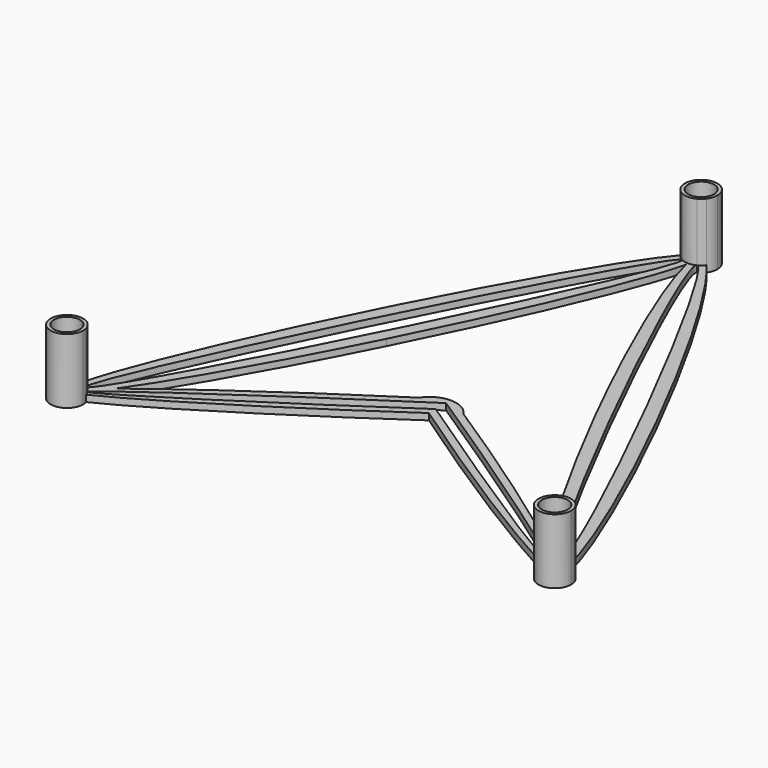
from build123d import *

# Parameters (mm, degrees)
F0_R     = 4
F0_R_2   = 2.5
F1_DEPTH = 2
F2_DEPTH = 20


with BuildPart() as f1:
    # F0 (on Top) → F1 (new body)
    with BuildSketch(Plane.XY):
        Circle(F0_R)
        Circle(F0_R_2, mode=Mode.SUBTRACT)
    extrude(amount=F1_DEPTH)


with BuildPart() as f1b:
    # F0 (on Top) → F1, piece 2 (new body)
    with BuildSketch(Plane.XY):
        with Locations((150, -6e-10)):
            Circle(F0_R)
        with Locations((150, -6e-10)):
            Circle(F0_R_2, mode=Mode.SUBTRACT)
    extrude(amount=F1_DEPTH)


with BuildPart() as f1c:
    # F0 (on Top) → F1, piece 3 (new body)
    with BuildSketch(Plane.XY):
        with Locations((75.0000000006, 149.9999999997)):
            Circle(F0_R)
        with Locations((75.0000000006, 149.9999999997)):
            Circle(F0_R_2, mode=Mode.SUBTRACT)
    extrude(amount=F1_DEPTH)


with BuildPart() as f1d:
    # F0 (on Top) → F1, piece 4 (new body)
    with BuildSketch(Plane.XY):
        with BuildLine():
            ThreePointArc((79.0012065768, 147.0016094424), (78.2045092857, 146.161885848), (77.2360679487, 145.52786403))
            add(Edge.make_bspline(
                [(147.7639320225, 4.4721359544), (150.975713636, 6.0780267612), (115.7117814382, 76.6058911209), (80.4478492403, 147.1337554807), (77.2360679487, 145.52786403)],
                knots=[0, 0, 0, 1.5707963314, 1.5707963314, 3.1415926627, 3.1415926627, 3.1415926627], degree=2, weights=[1, 0.7071067796, 1, 0.7071067796, 1]))
            ThreePointArc((147.7639320225, 4.4721359544), (149.1294900371, 4.9236381263), (150.5670776291, 4.9677382134))
            add(Edge.make_bspline(
                [(150.5670776291, 4.9677382134), (132.1845938597, 87.4948643458), (79.0012065768, 147.0016094424)],
                knots=[3.4834864984, 3.4834864984, 3.4834864984, 5.9626459505, 5.9626459505, 5.9626459505], degree=2, weights=[1, 0.3251937441, 1]))
        make_face()
    extrude(amount=F1_DEPTH)


with BuildPart() as f1e:
    # F0 (on Top) → F1, piece 5 (new body)
    with BuildSketch(Plane.XY):
        with BuildLine():
            ThreePointArc((2.2360679775, 4.472135955), (3.3090128106, 3.748390884), (4.1602514634, 2.7735009936))
            add(Edge.make_bspline(
                [(75.0000000001, 51.9747073929), (2.6962620712, 4.9694864759), (4.1602514634, 2.7735009936)],
                knots=[4.325345275, 4.325345275, 4.325345275, 6.2831852989, 6.2831852989, 6.2831852989], degree=2, weights=[1, 0.557919149, 1]))
            add(Edge.make_bspline(
                [(145.8397485132, 2.7735009585), (147.3037397677, 4.96948528), (75, 51.974707393)],
                knots=[6.2831852919, 6.2831852919, 6.2831852919, 8.2410253393, 8.2410253393, 8.2410253393], degree=2, weights=[1, 0.5579191392, 1]))
            ThreePointArc((145.8397485135, 2.7735009583), (146.6909871738, 3.7483908697), (147.7639320225, 4.4721359544))
            add(Edge.make_bspline(
                [(77.2360679487, 145.52786403), (74.0242866865, 143.9219725941), (109.2882185624, 73.3941088782), (144.5521504383, 2.8662451623), (147.7639320225, 4.4721359544)],
                knots=[3.1415926627, 3.1415926627, 3.1415926627, 4.7123889849, 4.7123889849, 6.2831853072, 6.2831853072, 6.2831853072], degree=2, weights=[1, 0.7071067828, 1, 0.7071067828, 1]))
            ThreePointArc((77.2360679487, 145.52786403), (75.0000000006, 144.9999999997), (72.7639320524, 145.5278640301))
            add(Edge.make_bspline(
                [(2.2360679775, 4.472135955), (5.4478495617, 2.8662451629), (40.7117814382, 73.3941088785), (75.9757133146, 143.9219725941), (72.7639320524, 145.5278640301)],
                knots=[0, 0, 0, 1.5707963222, 1.5707963222, 3.1415926445, 3.1415926445, 3.1415926445], degree=2, weights=[1, 0.7071067828, 1, 0.7071067828, 1]))
        make_face()
        with BuildLine():
            add(Edge.make_bspline(
                [(68.1720938249, 50.1453927692), (29.1323210889, 24.9812978491), (8.2554800597, 8.2020035961)],
                knots=[1.3176094199, 1.3176094199, 1.3176094199, 2.5518711664, 2.5518711664, 2.5518711664], degree=2, weights=[1, 0.815542168, 1]))
            add(Edge.make_bspline(
                [(8.2554800595, 8.202003595), (21.8843343101, 27.3328513739), (42.9342556451, 69.1166628307)],
                knots=[3.6602556494, 3.6602556494, 3.6602556494, 4.6786096571, 4.6786096571, 4.6786096571], degree=2, weights=[1, 0.87314598, 1]))
            add(Edge.make_bspline(
                [(42.9342556451, 69.1166628307), (70.1590012341, 123.1574175937), (75.0000000002, 144.1921586292)],
                knots=[4.6786096571, 4.6786096571, 4.6786096571, 5.9293471235, 5.9293471235, 5.9293471235], degree=2, weights=[1, 0.8107473196, 1]))
            add(Edge.make_bspline(
                [(74.9999999999, 144.19215863), (79.8409987654, 123.1574175953), (107.0657443546, 69.1166628313)],
                knots=[0.3538381837, 0.3538381837, 0.3538381837, 1.6045756501, 1.6045756501, 1.6045756501], degree=2, weights=[1, 0.8107473196, 1]))
            add(Edge.make_bspline(
                [(107.0657443546, 69.1166628313), (128.1156656889, 27.3328513755), (141.7445199396, 8.2020035958)],
                knots=[1.6045756501, 1.6045756501, 1.6045756501, 2.6229296578, 2.6229296578, 2.6229296578], degree=2, weights=[1, 0.87314598, 1]))
            add(Edge.make_bspline(
                [(141.7445199402, 8.2020035961), (120.867678911, 24.9812978491), (81.8279061752, 50.1453927692)],
                knots=[3.7313141408, 3.7313141408, 3.7313141408, 4.9655758873, 4.9655758873, 4.9655758873], degree=2, weights=[1, 0.815542168, 1]))
            ThreePointArc((81.8279061752, 50.1453927687), (75.0000000001, 53.8107347275), (68.172093825, 50.1453927685))
        make_face(mode=Mode.SUBTRACT)
    extrude(amount=F1_DEPTH)


with BuildPart() as f1f:
    # F0 (on Top) → F1, piece 6 (new body)
    with BuildSketch(Plane.XY):
        with BuildLine():
            ThreePointArc((4.1602514634, 2.7735009936), (4.5307515066, 2.1147791341), (4.7977356994, 1.4077400892))
            add(Edge.make_bspline(
                [(4.7977356994, 1.4077400892), (25.9185998279, 11.3185764312), (75, 45.3643565351)],
                knots=[3.5196044708, 3.5196044708, 3.5196044708, 5.0121556446, 5.0121556446, 5.0121556446], degree=2, weights=[1, 0.7342224926, 1]))
            add(Edge.make_bspline(
                [(75.0000000002, 45.364356535), (124.0814001723, 11.318576431), (145.2022643006, 1.4077400891)],
                knots=[1.2710296626, 1.2710296626, 1.2710296626, 2.7635808363, 2.7635808363, 2.7635808363], degree=2, weights=[1, 0.7342224926, 1]))
            ThreePointArc((145.2022643007, 1.407740089), (145.4692484847, 2.1147791148), (145.8397485135, 2.7735009583))
            add(Edge.make_bspline(
                [(75, 47.9962967473), (144.4338658752, 0.66467946), (145.8397485132, 2.7735009585)],
                knots=[4.3631296412, 4.3631296412, 4.3631296412, 6.2831852919, 6.2831852919, 6.2831852919], degree=2, weights=[1, 0.5734971915, 1]))
            add(Edge.make_bspline(
                [(4.1602514634, 2.7735009936), (5.5661323841, 0.6646782739), (75, 47.9962967472)],
                knots=[6.2831852989, 6.2831852989, 6.2831852989, 8.2032409732, 8.2032409732, 8.2032409732], degree=2, weights=[1, 0.5734971819, 1]))
        make_face()
    extrude(amount=F1_DEPTH)


with BuildPart() as f1g:
    # F0 (on Top) → F1, piece 7 (new body)
    with BuildSketch(Plane.XY):
        with BuildLine():
            add(Edge.make_bspline(
                [(70.895918346, 147.1440389043), (16.5034184914, 85.4982907485), (-0.1776801167, 4.9968419798)],
                knots=[0.3250086026, 0.3250086026, 0.3250086026, 2.816584051, 2.816584051, 2.816584051], degree=2, weights=[1, 0.3193169381, 1]))
            ThreePointArc((-0.1776801167, 4.9968419803), (1.0621060445, 4.8858909884), (2.2360679775, 4.472135955))
            add(Edge.make_bspline(
                [(72.7639320524, 145.5278640301), (69.5521507608, 147.1337554807), (34.2882185624, 76.6058911212), (-0.975713636, 6.0780267618), (2.2360679775, 4.472135955)],
                knots=[3.1415926445, 3.1415926445, 3.1415926445, 4.7123889758, 4.7123889758, 6.2831853072, 6.2831853072, 6.2831853072], degree=2, weights=[1, 0.7071067796, 1, 0.7071067796, 1]))
            ThreePointArc((72.7639320524, 145.5278640301), (71.728550849, 146.2187805603), (70.8959183465, 147.1440389047))
        make_face()
    extrude(amount=F1_DEPTH)


with BuildPart() as f2:
    # F0 (on Top) → F2 (new body)
    with BuildSketch(Plane.XY):
        with BuildLine():
            ThreePointArc((-0.1776801167, 4.9968419803), (-3.4721462683, -3.5978049269), (5, 0))
            ThreePointArc((5, 0), (4.949175613, 0.7110982713), (4.7977356994, 1.4077400892))
            ThreePointArc((4.7977356994, 1.4077400892), (4.5307515066, 2.1147791341), (4.1602514634, 2.7735009936))
            ThreePointArc((4.1602514634, 2.7735009936), (3.3090128106, 3.748390884), (2.2360679775, 4.472135955))
            ThreePointArc((2.2360679775, 4.472135955), (1.0621060445, 4.8858909884), (-0.1776801167, 4.9968419803))
        make_face()
        Circle(F0_R, mode=Mode.SUBTRACT)
    extrude(amount=F2_DEPTH)


with BuildPart() as f2b:
    # F0 (on Top) → F2, piece 2 (new body)
    with BuildSketch(Plane.XY):
        with BuildLine():
            ThreePointArc((145.8397485135, 2.7735009583), (145.4692484847, 2.1147791148), (145.2022643007, 1.407740089))
            ThreePointArc((145.2022643007, 1.407740089), (149.2889017285, -4.9491756136), (155, -6e-10))
            ThreePointArc((155, -6e-10), (153.7306425817, 3.3290097512), (150.5670776291, 4.9677382134))
            ThreePointArc((150.5670776291, 4.9677382134), (149.1294900371, 4.9236381263), (147.7639320225, 4.4721359544))
            ThreePointArc((147.7639320225, 4.4721359544), (146.6909871738, 3.7483908697), (145.8397485135, 2.7735009583))
        make_face()
        with Locations((150, -6e-10)):
            Circle(F0_R, mode=Mode.SUBTRACT)
    extrude(amount=F2_DEPTH)


with BuildPart() as f2c:
    # F0 (on Top) → F2, piece 3 (new body)
    with BuildSketch(Plane.XY):
        with BuildLine():
            ThreePointArc((80.0000000006, 149.9999999997), (73.5034052442, 154.7707655709), (70.8959183465, 147.1440389047))
            ThreePointArc((70.8959183465, 147.1440389047), (71.728550849, 146.2187805603), (72.7639320524, 145.5278640301))
            ThreePointArc((72.7639320524, 145.5278640301), (75.0000000006, 144.9999999997), (77.2360679487, 145.52786403))
            ThreePointArc((77.2360679487, 145.52786403), (78.2045092857, 146.161885848), (79.0012065768, 147.0016094424))
            ThreePointArc((79.0012065768, 147.0016094424), (79.7437344409, 148.4198153398), (80.0000000006, 149.9999999997))
        make_face()
        with Locations((75.0000000006, 149.9999999997)):
            Circle(F0_R, mode=Mode.SUBTRACT)
    extrude(amount=F2_DEPTH)


solid = Compound([f1.part, f1b.part, f1c.part, f1d.part, f1e.part, f1f.part, f1g.part, f2.part, f2b.part, f2c.part])
